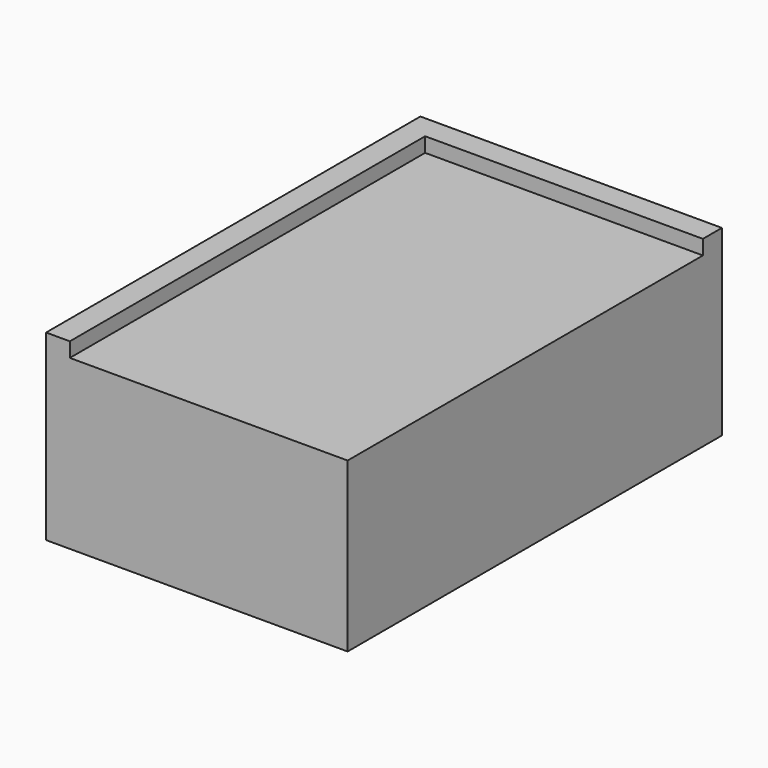
from build123d import *

# Parameters (mm, degrees)
F0_W      = 165
F0_H      = 256
F0_W_2    = 159
F0_H_2    = 250
F1_DEPTH  = 100
F2_W      = 165
F2_H      = 256
F3_DEPTH  = 3
F4_W      = 165
F4_H      = 256
F5_DEPTH  = 3
F7_DEPTH  = 8
F9_DEPTH  = 8
F10_W     = 30
F10_H     = 65
F11_DEPTH = 2
F12_W     = 243
F12_H     = 8
F13_DEPTH = 3
F14_W     = 152
F14_H     = 8
F15_DEPTH = 3
F16_W     = 165
F16_H     = 15.5
F17_DEPTH = 3
F18_W     = 15.5
F18_H     = 240.5
F19_DEPTH = 3


with BuildPart() as f1:
    # F0 (on Top) → F1 (new body)
    with BuildSketch(Plane.XY):
        Rectangle(F0_W, F0_H)
        Rectangle(F0_W_2, F0_H_2, mode=Mode.SUBTRACT)
    extrude(amount=F1_DEPTH)

    # F2 (on face) → F3 (join)
    with BuildSketch(Plane.XY):
        Rectangle(F2_W, F2_H)
    extrude(amount=F3_DEPTH)

    # F4 (on face) → F5 (join)
    with BuildSketch(Plane.XY.offset(100)):
        Rectangle(F4_W, F4_H)
    extrude(amount=-F5_DEPTH)

    # F6 (on face) → F7 (join)
    with BuildSketch(Plane.XY.offset(100)):
        Polygon((-82.5, 128), (-82.5, -128), (-69.5, -128), (-69.5, 115), (82.5, 115), (82.5, 128), (-69.5, 128), (-73.5, 128), align=None)
    extrude(amount=F7_DEPTH)

    # F8 (on Top) → F9 (cut)
    with BuildSketch(Plane.XY):
        Polygon((-82.5, -128), (82.5, -128), (82.5, -115), (82.5, 128), (69.5, 128), (69.5, -115), (-82.5, -115), align=None)
    extrude(amount=F9_DEPTH, mode=Mode.SUBTRACT)

    # F10 (on face) → F11 (cut)
    with BuildSketch(Plane(origin=(0, 128, 0), x_dir=(-1, 0, 0), z_dir=(0, 1, 0))):
        with Locations((47.5, 32.5)):
            Rectangle(F10_W, F10_H)
    extrude(amount=-F11_DEPTH, mode=Mode.SUBTRACT)

    # F12 (on face) → F13 (join)
    with BuildSketch(Plane.YZ.offset(69.5)):
        with Locations((6.5, 4)):
            Rectangle(F12_W, F12_H)
    extrude(amount=-F13_DEPTH)

    # F14 (on face) → F15 (join)
    with BuildSketch(Plane.XZ.offset(115)):
        with Locations((-6.5, 4)):
            Rectangle(F14_W, F14_H)
    extrude(amount=-F15_DEPTH)

    # F16 (on face) → F17 (join)
    with BuildSketch(Plane(origin=(0, 0, 8), x_dir=(1, 0, 0), z_dir=(0, 0, -1))):
        with Locations((0, 120.25)):
            Rectangle(F16_W, F16_H)
    extrude(amount=-F17_DEPTH)

    # F18 (on face) → F19 (join)
    with BuildSketch(Plane(origin=(0, 0, 8), x_dir=(1, 0, 0), z_dir=(0, 0, -1))):
        with Locations((74.75, -7.75)):
            Rectangle(F18_W, F18_H)
    extrude(amount=-F19_DEPTH)


solid = f1.part
